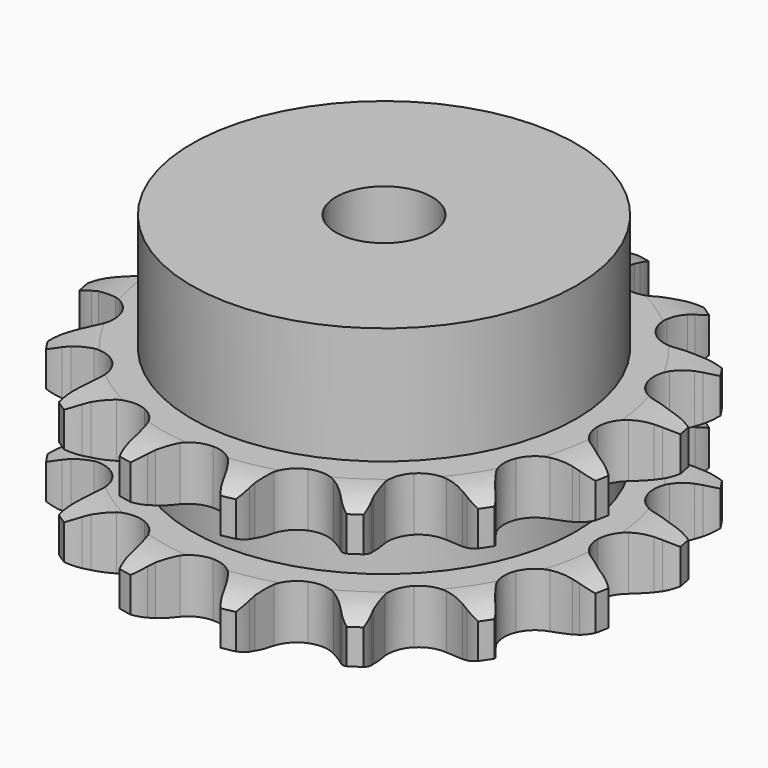
from build123d import *

# Parameters (mm, degrees)
PAD_DEPTH         = 25.5
SKETCH001_R       = 32
PAD001_DEPTH      = 45
SKETCH002_R       = 8
POCKET_DEPTH      = 0.001
POCKET_DEPTH_BACK = 45.001


with BuildPart() as part:
    # Sprocket → Pad (new body)
    with BuildSketch(Plane.XY):
        with BuildLine():
            ThreePointArc((-8.888607, 44.686043), (-7.354381, 43.203794), (-6.239878, 41.384785))
            Line((-6.239878, 41.384785), (-5.761549, 40.322933))
            ThreePointArc((-5.761549, 40.322933), (-4.976913, 38.839449), (-4.011336, 37.466845))
            ThreePointArc((-4.011336, 37.466845), (-2.224457, 36.048677), (0, 35.542783))
            ThreePointArc((0, 35.542783), (2.224457, 36.048677), (4.011336, 37.466845))
            ThreePointArc((4.011336, 37.466845), (4.976913, 38.839449), (5.761549, 40.322933))
            Line((5.761549, 40.322933), (6.239878, 41.384785))
            ThreePointArc((6.239878, 41.384785), (7.354381, 43.203794), (8.888607, 44.686043))
            ThreePointArc((8.888607, 44.686043), (9.738814, 42.729501), (10.072376, 40.622454))
            Line((10.072376, 40.622454), (10.107941, 39.458382))
            ThreePointArc((10.107941, 39.458382), (10.265146, 37.787554), (10.63195, 36.149923))
            ThreePointArc((10.63195, 36.149923), (11.740101, 34.155898), (13.601634, 32.837249))
            ThreePointArc((13.601634, 32.837249), (15.850362, 32.453372), (18.043932, 33.07978))
            Line((18.043932, 33.07978), (20.753896, 35.048684))
            ThreePointArc((20.753896, 35.048684), (21.169274, 35.45698), (21.602168, 35.846658))
            ThreePointArc((21.602168, 35.846658), (23.327939, 37.100701), (25.31261, 37.882998))
            ThreePointArc((25.31261, 37.882998), (25.349363, 35.750029), (24.851202, 33.675723))
            Line((24.851202, 33.675723), (24.438589, 32.58665))
            ThreePointArc((24.438589, 32.58665), (23.944429, 30.982847), (23.656618, 29.329503))
            ThreePointArc((23.656618, 29.329503), (23.917336, 27.063193), (25.132543, 25.132543))
            ThreePointArc((25.132543, 25.132543), (27.063193, 23.917336), (29.329503, 23.656618))
            Line((29.329503, 23.656618), (32.58665, 24.438589))
            ThreePointArc((32.58665, 24.438589), (33.126658, 24.656848), (33.675723, 24.851202))
            ThreePointArc((33.675723, 24.851202), (35.750029, 25.349363), (37.882998, 25.31261))
            ThreePointArc((37.882998, 25.31261), (37.100701, 23.327939), (35.846658, 21.602168))
            Line((35.846658, 21.602168), (35.048684, 20.753896))
            ThreePointArc((35.048684, 20.753896), (33.97839, 19.461282), (33.07978, 18.043932))
            ThreePointArc((33.07978, 18.043932), (32.453372, 15.850362), (32.837249, 13.601634))
            ThreePointArc((32.837249, 13.601634), (34.155898, 11.740101), (36.149923, 10.63195))
            Line((36.149923, 10.63195), (39.458382, 10.107941))
            ThreePointArc((39.458382, 10.107941), (40.040808, 10.102934), (40.622454, 10.072376))
            ThreePointArc((40.622454, 10.072376), (42.729501, 9.738814), (44.686043, 8.888607))
            ThreePointArc((44.686043, 8.888607), (43.203794, 7.354381), (41.384785, 6.239878))
            Line((41.384785, 6.239878), (40.322933, 5.761549))
            ThreePointArc((40.322933, 5.761549), (38.839449, 4.976913), (37.466845, 4.011336))
            ThreePointArc((37.466845, 4.011336), (36.048677, 2.224457), (35.542783, 0))
            ThreePointArc((35.542783, 0), (36.048677, -2.224457), (37.466845, -4.011336))
            Line((37.466845, -4.011336), (40.322933, -5.761549))
            ThreePointArc((40.322933, -5.761549), (40.859109, -5.98906), (41.384785, -6.239878))
            ThreePointArc((41.384785, -6.239878), (43.203794, -7.354381), (44.686043, -8.888607))
            ThreePointArc((44.686043, -8.888607), (42.729501, -9.738814), (40.622454, -10.072376))
            Line((40.622454, -10.072376), (39.458382, -10.107941))
            ThreePointArc((39.458382, -10.107941), (37.787554, -10.265146), (36.149923, -10.63195))
            ThreePointArc((36.149923, -10.63195), (34.155898, -11.740101), (32.837249, -13.601634))
            ThreePointArc((32.837249, -13.601634), (32.453372, -15.850362), (33.07978, -18.043932))
            Line((33.07978, -18.043932), (35.048684, -20.753896))
            ThreePointArc((35.048684, -20.753896), (35.45698, -21.169274), (35.846658, -21.602168))
            ThreePointArc((35.846658, -21.602168), (37.100701, -23.327939), (37.882998, -25.31261))
            ThreePointArc((37.882998, -25.31261), (35.750029, -25.349363), (33.675723, -24.851202))
            Line((33.675723, -24.851202), (32.58665, -24.438589))
            ThreePointArc((32.58665, -24.438589), (30.982847, -23.944429), (29.329503, -23.656618))
            ThreePointArc((29.329503, -23.656618), (27.063193, -23.917336), (25.132543, -25.132543))
            ThreePointArc((25.132543, -25.132543), (23.917336, -27.063193), (23.656618, -29.329503))
            Line((23.656618, -29.329503), (24.438589, -32.58665))
            ThreePointArc((24.438589, -32.58665), (24.656848, -33.126658), (24.851202, -33.675723))
            ThreePointArc((24.851202, -33.675723), (25.349363, -35.750029), (25.31261, -37.882998))
            ThreePointArc((25.31261, -37.882998), (23.327939, -37.100701), (21.602168, -35.846658))
            Line((21.602168, -35.846658), (20.753896, -35.048684))
            ThreePointArc((20.753896, -35.048684), (19.461282, -33.97839), (18.043932, -33.07978))
            ThreePointArc((18.043932, -33.07978), (15.850362, -32.453372), (13.601634, -32.837249))
            ThreePointArc((13.601634, -32.837249), (11.740101, -34.155898), (10.63195, -36.149923))
            Line((10.63195, -36.149923), (10.107941, -39.458382))
            ThreePointArc((10.107941, -39.458382), (10.102934, -40.040808), (10.072376, -40.622454))
            ThreePointArc((10.072376, -40.622454), (9.738814, -42.729501), (8.888607, -44.686043))
            ThreePointArc((8.888607, -44.686043), (7.354381, -43.203794), (6.239878, -41.384785))
            Line((6.239878, -41.384785), (5.761549, -40.322933))
            ThreePointArc((5.761549, -40.322933), (4.976913, -38.839449), (4.011336, -37.466845))
            ThreePointArc((4.011336, -37.466845), (2.224457, -36.048677), (0, -35.542783))
            ThreePointArc((0, -35.542783), (-2.224457, -36.048677), (-4.011336, -37.466845))
            Line((-4.011336, -37.466845), (-5.761549, -40.322933))
            ThreePointArc((-5.761549, -40.322933), (-5.98906, -40.859109), (-6.239878, -41.384785))
            ThreePointArc((-6.239878, -41.384785), (-7.354381, -43.203794), (-8.888607, -44.686043))
            ThreePointArc((-8.888607, -44.686043), (-9.738814, -42.729501), (-10.072376, -40.622454))
            Line((-10.072376, -40.622454), (-10.107941, -39.458382))
            ThreePointArc((-10.107941, -39.458382), (-10.265146, -37.787554), (-10.63195, -36.149923))
            ThreePointArc((-10.63195, -36.149923), (-11.740101, -34.155898), (-13.601634, -32.837249))
            ThreePointArc((-13.601634, -32.837249), (-15.850362, -32.453372), (-18.043932, -33.07978))
            Line((-18.043932, -33.07978), (-20.753896, -35.048684))
            ThreePointArc((-20.753896, -35.048684), (-21.169274, -35.45698), (-21.602168, -35.846658))
            ThreePointArc((-21.602168, -35.846658), (-23.327939, -37.100701), (-25.31261, -37.882998))
            ThreePointArc((-25.31261, -37.882998), (-25.349363, -35.750029), (-24.851202, -33.675723))
            Line((-24.851202, -33.675723), (-24.438589, -32.58665))
            ThreePointArc((-24.438589, -32.58665), (-23.944429, -30.982847), (-23.656618, -29.329503))
            ThreePointArc((-23.656618, -29.329503), (-23.917336, -27.063193), (-25.132543, -25.132543))
            ThreePointArc((-25.132543, -25.132543), (-27.063193, -23.917336), (-29.329503, -23.656618))
            Line((-29.329503, -23.656618), (-32.58665, -24.438589))
            ThreePointArc((-32.58665, -24.438589), (-33.126658, -24.656848), (-33.675723, -24.851202))
            ThreePointArc((-33.675723, -24.851202), (-35.750029, -25.349363), (-37.882998, -25.31261))
            ThreePointArc((-37.882998, -25.31261), (-37.100701, -23.327939), (-35.846658, -21.602168))
            Line((-35.846658, -21.602168), (-35.048684, -20.753896))
            ThreePointArc((-35.048684, -20.753896), (-33.97839, -19.461282), (-33.07978, -18.043932))
            ThreePointArc((-33.07978, -18.043932), (-32.453372, -15.850362), (-32.837249, -13.601634))
            ThreePointArc((-32.837249, -13.601634), (-34.155898, -11.740101), (-36.149923, -10.63195))
            Line((-36.149923, -10.63195), (-39.458382, -10.107941))
            ThreePointArc((-39.458382, -10.107941), (-40.040808, -10.102934), (-40.622454, -10.072376))
            ThreePointArc((-40.622454, -10.072376), (-42.729501, -9.738814), (-44.686043, -8.888607))
            ThreePointArc((-44.686043, -8.888607), (-43.203794, -7.354381), (-41.384785, -6.239878))
            Line((-41.384785, -6.239878), (-40.322933, -5.761549))
            ThreePointArc((-40.322933, -5.761549), (-38.839449, -4.976913), (-37.466845, -4.011336))
            ThreePointArc((-37.466845, -4.011336), (-36.048677, -2.224457), (-35.542783, 0))
            ThreePointArc((-35.542783, 0), (-36.048677, 2.224457), (-37.466845, 4.011336))
            Line((-37.466845, 4.011336), (-40.322933, 5.761549))
            ThreePointArc((-40.322933, 5.761549), (-40.859109, 5.98906), (-41.384785, 6.239878))
            ThreePointArc((-41.384785, 6.239878), (-43.203794, 7.354381), (-44.686043, 8.888607))
            ThreePointArc((-44.686043, 8.888607), (-42.729501, 9.738814), (-40.622454, 10.072376))
            Line((-40.622454, 10.072376), (-39.458382, 10.107941))
            ThreePointArc((-39.458382, 10.107941), (-37.787554, 10.265146), (-36.149923, 10.63195))
            ThreePointArc((-36.149923, 10.63195), (-34.155898, 11.740101), (-32.837249, 13.601634))
            ThreePointArc((-32.837249, 13.601634), (-32.453372, 15.850362), (-33.07978, 18.043932))
            Line((-33.07978, 18.043932), (-35.048684, 20.753896))
            ThreePointArc((-35.048684, 20.753896), (-35.45698, 21.169274), (-35.846658, 21.602168))
            ThreePointArc((-35.846658, 21.602168), (-37.100701, 23.327939), (-37.882998, 25.31261))
            ThreePointArc((-37.882998, 25.31261), (-35.750029, 25.349363), (-33.675723, 24.851202))
            Line((-33.675723, 24.851202), (-32.58665, 24.438589))
            ThreePointArc((-32.58665, 24.438589), (-30.982847, 23.944429), (-29.329503, 23.656618))
            ThreePointArc((-29.329503, 23.656618), (-27.063193, 23.917336), (-25.132543, 25.132543))
            ThreePointArc((-25.132543, 25.132543), (-23.917336, 27.063193), (-23.656618, 29.329503))
            Line((-23.656618, 29.329503), (-24.438589, 32.58665))
            ThreePointArc((-24.438589, 32.58665), (-24.656848, 33.126658), (-24.851202, 33.675723))
            ThreePointArc((-24.851202, 33.675723), (-25.349363, 35.750029), (-25.31261, 37.882998))
            ThreePointArc((-25.31261, 37.882998), (-23.327939, 37.100701), (-21.602168, 35.846658))
            Line((-21.602168, 35.846658), (-20.753896, 35.048684))
            ThreePointArc((-20.753896, 35.048684), (-19.461282, 33.97839), (-18.043932, 33.07978))
            ThreePointArc((-18.043932, 33.07978), (-15.850362, 32.453372), (-13.601634, 32.837249))
            ThreePointArc((-13.601634, 32.837249), (-11.740101, 34.155898), (-10.63195, 36.149923))
            Line((-10.63195, 36.149923), (-10.107941, 39.458382))
            ThreePointArc((-10.107941, 39.458382), (-10.102934, 40.040808), (-10.072376, 40.622454))
            ThreePointArc((-10.072376, 40.622454), (-9.738814, 42.729501), (-8.888607, 44.686043))
        make_face()
    extrude(amount=PAD_DEPTH)

    # Sketch → Groove (revolve, cut)
    with BuildSketch(Plane.XZ):
        with BuildLine():
            ThreePointArc((37.025762, 0), (40.60347, 0.405129), (44, 1.6))
            Line((44, 1.6), (44, 7.4))
            ThreePointArc((44, 7.4), (40.60347, 8.594871), (37.025762, 9))
            Line((32, 9), (37.025762, 9))
            Line((32, 16.5), (32, 9))
            Line((37.025762, 16.5), (32, 16.5))
            ThreePointArc((37.025762, 16.5), (40.60347, 16.905129), (44, 18.1))
            Line((44, 18.1), (44, 23.9))
            ThreePointArc((44, 23.9), (40.60347, 25.094871), (37.025762, 25.5))
            Line((37.025762, 25.5), (47.025762, 25.5))
            Line((47.025762, 25.5), (47.025762, 0))
            Line((37.025762, 0), (47.025762, 0))
        make_face()
    revolve(axis=Axis((0, 0, 0), (0, 0, 1)), mode=Mode.SUBTRACT)

    # Sketch001 → Pad001 (join)
    with BuildSketch(Plane.XY):
        Circle(SKETCH001_R)
    extrude(amount=PAD001_DEPTH)

    # Sketch002 → Pocket (cut, two sides)
    with BuildSketch(Plane.XY) as pocket_sk:
        Circle(SKETCH002_R)
    extrude(amount=-POCKET_DEPTH, mode=Mode.SUBTRACT)
    extrude(pocket_sk.sketch, amount=POCKET_DEPTH_BACK, mode=Mode.SUBTRACT)


solid = part.part
